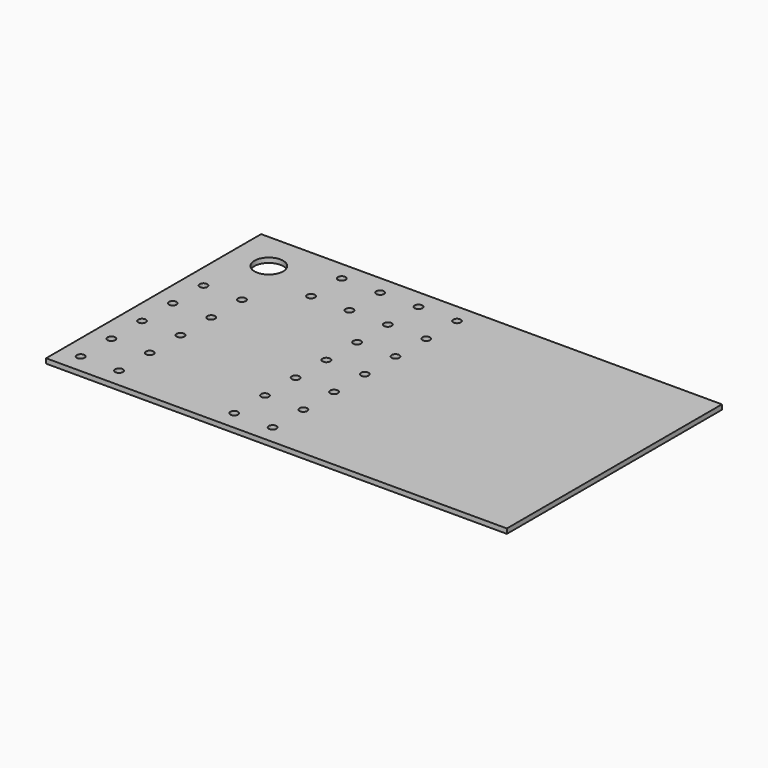
from build123d import *

# Parameters (mm, degrees)
F0_W     = 304.8
F0_H     = 177.8
F1_DEPTH = 3.175
F3_D     = 5.1054
F4_D     = 19.05


with BuildPart() as f1:
    # F0 (on Top) → F1 (new body)
    with BuildSketch(Plane.XY):
        with Locations((4.422663, 18.39034)):
            Rectangle(F0_W, F0_H)
    extrude(amount=F1_DEPTH)

    # F3 (through all)
    with Locations(Plane.XY.offset(3.175)):
        with Locations((-33.677337, -32.40966), (-33.677337, 94.59034), (-33.677337, 43.79034), (-8.277337, 43.79034), (-33.677337, -57.80966), (-8.277337, 18.39034), (-8.277337, -7.00966), (-8.277337, -57.80966), (-84.477337, 94.59034), (-8.277337, 94.59034), (-8.277337, -32.40966), (-59.077337, 69.19034), (-33.677337, 18.39034), (-59.077337, 94.59034), (-33.677337, -7.00966), (-8.277337, 69.19034), (-84.477337, 69.19034), (-33.677337, 69.19034), (-135.277337, 43.79034), (-135.277337, 18.39034), (-109.877337, -32.40966), (-109.877337, 43.79034), (-109.877337, -57.80966), (-135.277337, -57.80966), (-109.877337, -7.00966), (-135.277337, -32.40966), (-109.877337, 18.39034), (-135.277337, -7.00966)):
            Hole(F3_D / 2)

    # F4 (through all)
    with Locations(Plane.XY.offset(3.175)):
        with Locations((-122.577337, 81.89034)):
            Hole(F4_D / 2)


solid = f1.part
